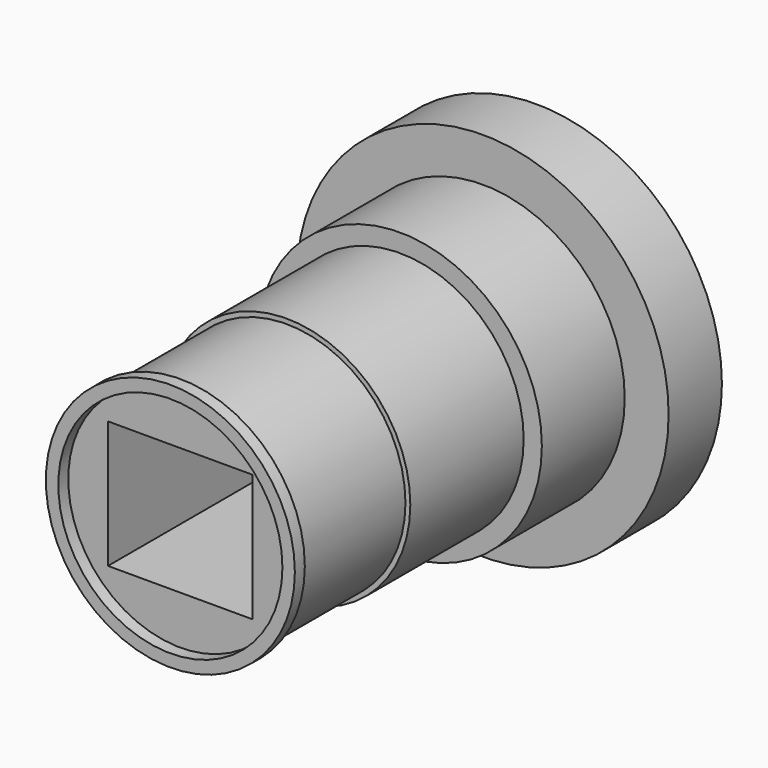
from build123d import *

# Parameters (mm, degrees)
F0_R     = 29.85
F0_R_2   = 22.8
F2_DEPTH = 10.7
F0_R_3   = 19.88
F3_DEPTH = 27.34
F0_R_4   = 19.1
F4_DEPTH = 50.1
F5_DEPTH = 71.43
F1_W     = 23.24
F1_H     = 20.44
F6_DEPTH = 72
F7_R     = 20
F7_R_2   = 18
F8_DEPTH = 2


with BuildPart() as f2:
    # F0 (on Front) → F2 (new body)
    with BuildSketch(Plane.XZ):
        Circle(F0_R)
        Circle(F0_R_2, mode=Mode.SUBTRACT)
    extrude(amount=F2_DEPTH)

    # F0 (on Front) → F3 (join)
    with BuildSketch(Plane.XZ):
        Circle(F0_R_2)
        Circle(F0_R_3, mode=Mode.SUBTRACT)
    extrude(amount=F3_DEPTH)


with BuildPart() as f4:
    # F0 (on Front) → F4 (new body)
    with BuildSketch(Plane.XZ):
        Circle(F0_R_3)
        Circle(F0_R_4, mode=Mode.SUBTRACT)
    extrude(amount=F4_DEPTH)


with BuildPart() as f5:
    # F0 (on Front) → F5 (new body)
    with BuildSketch(Plane.XZ):
        Circle(F0_R_4)
    extrude(amount=F5_DEPTH)

    # F1 (on Front) → F6 (cut)
    with BuildSketch(Plane.XZ):
        Rectangle(F1_W, F1_H)
    extrude(amount=F6_DEPTH, mode=Mode.SUBTRACT)

    # F7 (on face) → F8 (join)
    with BuildSketch(Plane.XZ.offset(71.43)):
        Circle(F7_R)
        Circle(F7_R_2, mode=Mode.SUBTRACT)
        Circle(F7_R)
        Circle(F7_R_2, mode=Mode.SUBTRACT)
    extrude(amount=F8_DEPTH)


solid = Compound([f2.part, f4.part, f5.part])
